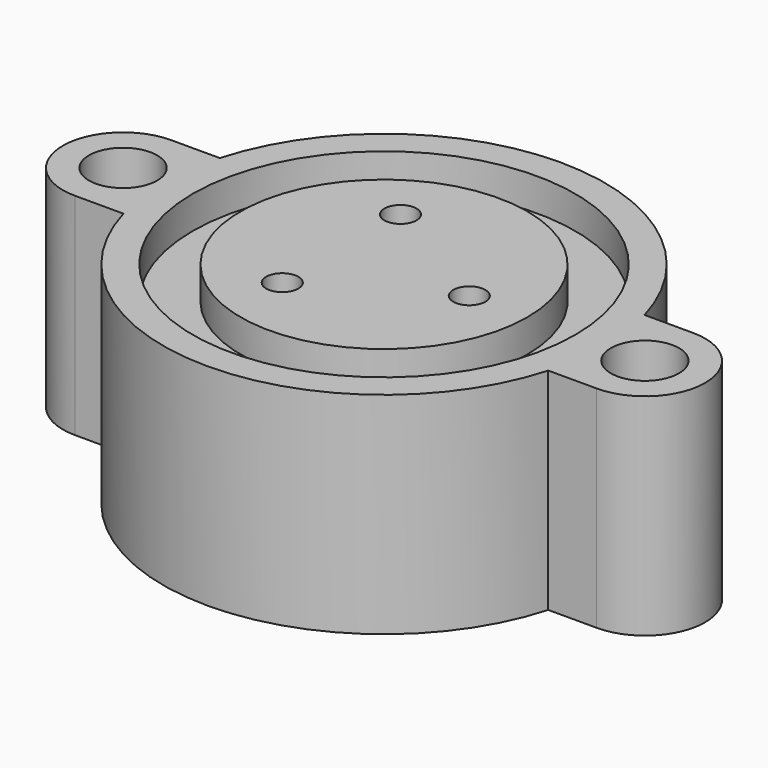
from build123d import *

# Parameters (mm, degrees)
CYLINDER150_R       = 1.7
CYLINDER150_DEPTH   = 11
CYLINDER154_R       = 7.14375
CYLINDER154_DEPTH   = 2.38125
CYLINDER155_R       = 9.525
CYLINDER155_DEPTH   = 2.38125
CYLINDER157_R       = 2.2
CYLINDER157_DEPTH   = 9
CYLINDER156_R       = 0.8
CYLINDER156_DEPTH   = 5
CYLINDER147_R       = 2.575
CYLINDER147_DEPTH   = 6
ARRAY_COUNT         = 3
CYLINDER151_R       = 1.7
CYLINDER151_DEPTH   = 11
BOX001_W            = 3
BOX001_H            = 6
BOX001_DEPTH        = 10.5
BOX_W               = 3
BOX_H               = 6
BOX_DEPTH           = 10.5
CYLINDER_R          = 3
CYLINDER_DEPTH      = 10.5
CYLINDER153_R       = 11
CYLINDER153_DEPTH   = 10.5
CYLINDER158_R       = 3
CYLINDER158_DEPTH   = 10.5
CUT_PLACEMENT_ANGLE = 180


with BuildPart() as obj1:
    # Cylinder150 → Cylinder150 (new body)
    with BuildSketch(Plane(origin=(-13, 0, 0), x_dir=(1, 0, 0), z_dir=(0, 0, 1))):
        Circle(CYLINDER150_R)
    extrude(amount=CYLINDER150_DEPTH)


with BuildPart() as cylinder008:
    # Cylinder154 → Cylinder154 (new body)
    with BuildSketch(Plane.XY):
        Circle(CYLINDER154_R)
    extrude(amount=CYLINDER154_DEPTH)


with BuildPart() as oring:
    # Cylinder155 → Cylinder155 (new body)
    with BuildSketch(Plane.XY):
        Circle(CYLINDER155_R)
    extrude(amount=CYLINDER155_DEPTH)

    # Cut019: cut Cylinder008
    add(cylinder008.part, mode=Mode.SUBTRACT)


with BuildPart() as oring_1:
    # Cut019 placement: moved
    add(oring.part.moved(Location((0, 0, -0.75))))


with BuildPart() as sealsubtraction:
    # Cylinder157 → Cylinder157 (new body)
    with BuildSketch(Plane.XY.offset(1.3)):
        Circle(CYLINDER157_R)
    extrude(amount=CYLINDER157_DEPTH)


with BuildPart() as bottomwireoutlet:
    # Cylinder156 → Cylinder156 (new body)
    with BuildSketch(Plane.XY.offset(-2)):
        Circle(CYLINDER156_R)
    extrude(amount=CYLINDER156_DEPTH)


with BuildPart() as sealarray:
    # Cylinder147 → Cylinder147 (new body)
    with BuildSketch(Plane.XY.offset(4.5)):
        Circle(CYLINDER147_R)
    extrude(amount=CYLINDER147_DEPTH)

    # Fusion: union SealSubtraction, BottomWireOutlet
    add(sealsubtraction.part)
    add(bottomwireoutlet.part)


with BuildPart() as sealarray_1:
    # Fusion placement: moved
    add(sealarray.part.moved(Location((4.25, 0, 0))))

    # Array: SealArray ×3 about axis
    array_axis = Axis((0, 0, 0), (0, 0, 1))


with BuildPart() as sealarray_2:
    add(sealarray_1.part)
    for i in range(1, ARRAY_COUNT):
        add(sealarray_1.part.rotate(array_axis, i * 360 / ARRAY_COUNT))


with BuildPart() as fusion002:
    # Cylinder151 → Cylinder151 (new body)
    with BuildSketch(Plane(origin=(13, 0, 0), x_dir=(1, 0, 0), z_dir=(0, 0, 1))):
        Circle(CYLINDER151_R)
    extrude(amount=CYLINDER151_DEPTH)

    # Fusion002: union obj1, Oring, SealArray
    add(obj1.part)
    add(oring_1.part)
    add(sealarray_2.part)


with BuildPart() as mountcube002:
    # Box001 → Box001 (new body)
    with BuildSketch(Plane(origin=(10, -3, 0), x_dir=(1, 0, 0), z_dir=(0, 0, 1))):
        with Locations((1.5, 3)):
            Rectangle(BOX001_W, BOX001_H)
    extrude(amount=BOX001_DEPTH)


with BuildPart() as mountcube1:
    # Box → Box (new body)
    with BuildSketch(Plane(origin=(-13, -3, 0), x_dir=(1, 0, 0), z_dir=(0, 0, 1))):
        with Locations((1.5, 3)):
            Rectangle(BOX_W, BOX_H)
    extrude(amount=BOX_DEPTH)


with BuildPart() as mountflange1:
    # Cylinder → Cylinder (new body)
    with BuildSketch(Plane(origin=(-13, 0, 0), x_dir=(1, 0, 0), z_dir=(0, 0, 1))):
        Circle(CYLINDER_R)
    extrude(amount=CYLINDER_DEPTH)


with BuildPart() as body:
    # Cylinder153 → Cylinder153 (new body)
    with BuildSketch(Plane.XY):
        Circle(CYLINDER153_R)
    extrude(amount=CYLINDER153_DEPTH)


with BuildPart() as base_cut:
    # Cylinder158 → Cylinder158 (new body)
    with BuildSketch(Plane(origin=(13, 0, 0), x_dir=(1, 0, 0), z_dir=(0, 0, 1))):
        Circle(CYLINDER158_R)
    extrude(amount=CYLINDER158_DEPTH)

    # Fusion001: union MountCube002, MountCube1, MountFlange1, Body
    add(mountcube002.part)
    add(mountcube1.part)
    add(mountflange1.part)
    add(body.part)

    # Cut: cut Fusion002
    add(fusion002.part, mode=Mode.SUBTRACT)


with BuildPart() as base_cut_1:
    # Cut placement: moved
    add(base_cut.part.rotate(Axis((0, 0, 0), (1, 0, 0)), CUT_PLACEMENT_ANGLE))


solid = base_cut_1.part
